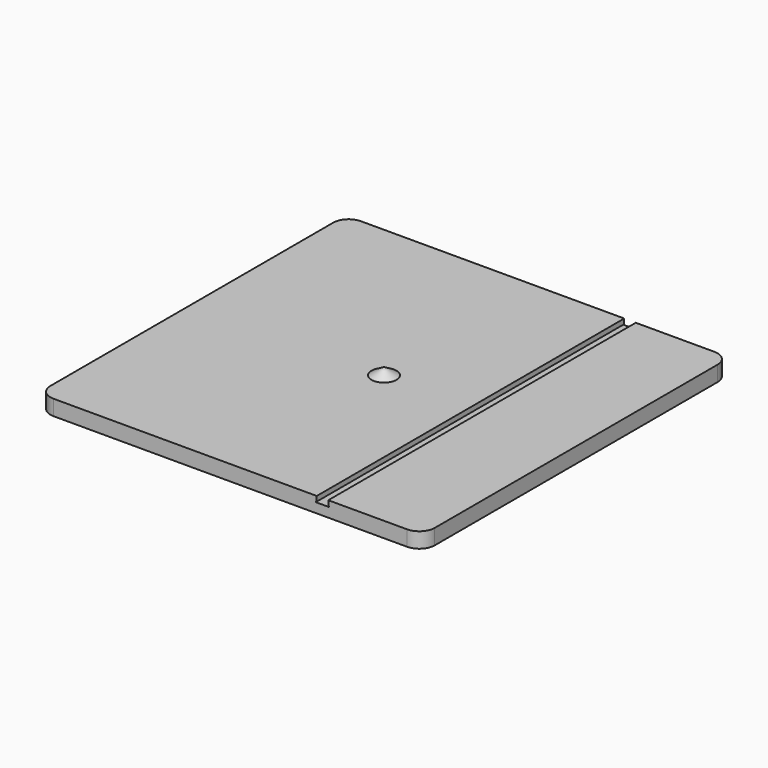
from build123d import *

# Parameters (mm, degrees)
F1_DEPTH = 25.4
F5_DEPTH = 635.001


with BuildPart() as f1:
    # F0 (on Top) → F1 (new body)
    with BuildSketch(Plane.XY):
        with BuildLine():
            Line((292.1, 317.5), (-292.1, 317.5))
            ThreePointArc((-292.1, 317.5), (-310.0605122421, 310.0605122421), (-317.5, 292.1))
            Line((-317.5, 292.1), (-317.5, -292.1))
            ThreePointArc((-317.5, -292.1), (-310.0605122421, -310.0605122421), (-292.1, -317.5))
            Line((-292.1, -317.5), (292.1, -317.5))
            ThreePointArc((292.1, -317.5), (310.0605122421, -310.0605122421), (317.5, -292.1))
            Line((317.5, -292.1), (317.5, 292.1))
            ThreePointArc((317.5, 292.1), (310.0605122421, 310.0605122421), (292.1, 317.5))
        make_face()
    extrude(amount=F1_DEPTH)

    # F4 (on face) → F5 (cut, through all)
    with BuildSketch(Plane.XZ.offset(317.5)):
        Polygon((161.925, 25.4), (142.875, 25.4), (142.875, 17.4625), (141.2875, 17.4625), (141.2875, 15.875), (163.5125, 15.875), (163.5125, 17.4625), (161.925, 17.4625), align=None)
    extrude(amount=-F5_DEPTH, mode=Mode.SUBTRACT)


with BuildPart() as f3:
    # F2 (on Right) → F3 (revolve)
    with BuildSketch(Plane.YZ):
        Polygon((0, 25.4), (0, 37.3150661804), (-20.6375, 25.4), align=None)
        Polygon((0, 25.4), (-20.6375, 25.4), (-25.4, 22.650369343), (-25.4, 0), (0, 0), align=None)
    revolve(axis=Axis((0, 0, 18.6575330902), (0, 0, -1)))


solid = Compound([f1.part, f3.part])
